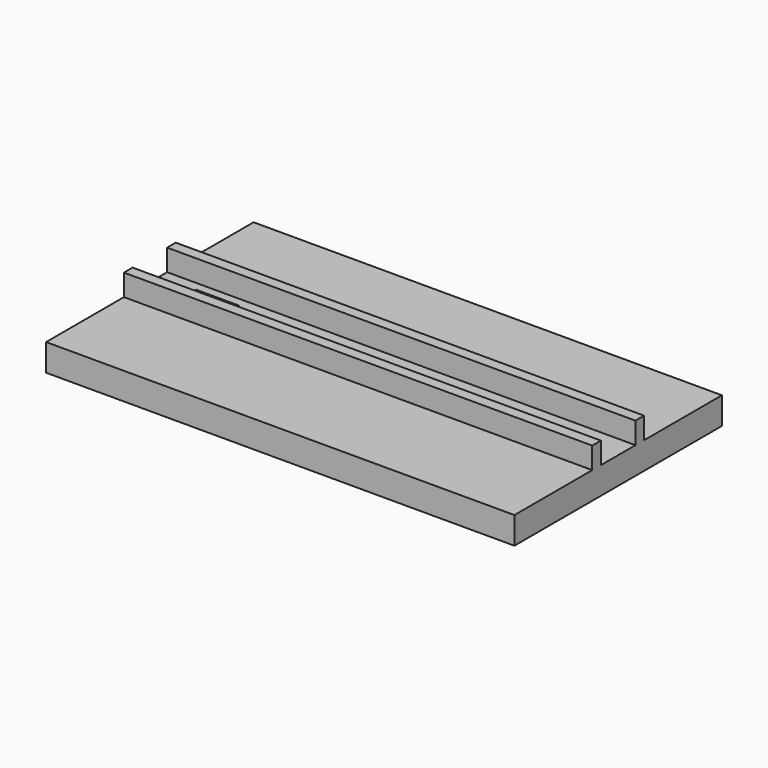
from build123d import *

# Parameters (mm, degrees)
F0_W     = 1651
F0_H     = 914.4
F0_W_2   = 152.4
F0_H_2   = 88.9
F1_DEPTH = 19.05
F2_W     = 1651
F2_H     = 38.1
F3_DEPTH = 76.2
F4_W     = 1651
F4_H     = 914.4
F4_W_2   = 1574.8
F4_H_2   = 190.5
F4_H_3   = 38.1
F5_DEPTH = 76.2


with BuildPart() as f1:
    # F0 (on Top) → F1 (new body)
    with BuildSketch(Plane.XY):
        Rectangle(F0_W, F0_H)
        with Locations((-622.3, 0)):
            Rectangle(F0_W_2, F0_H_2, mode=Mode.SUBTRACT)
        Rectangle(F0_W, F0_H)
        with Locations((-622.3, 0)):
            Rectangle(F0_W_2, F0_H_2, mode=Mode.SUBTRACT)
    extrude(amount=F1_DEPTH)

    # F2 (on face) → F3 (join)
    with BuildSketch(Plane.XY.offset(19.05)):
        with Locations((0, 95.25)):
            Rectangle(F2_W, F2_H)
        with Locations((0, -95.25)):
            Rectangle(F2_W, F2_H)
    extrude(amount=F3_DEPTH)

    # F4 (on face) → F5 (join)
    with BuildSketch(Plane(origin=(0, 0, 0), x_dir=(1, 0, 0), z_dir=(0, 0, -1))):
        Rectangle(F4_W, F4_H)
        Polygon((-787.4, 190.5), (787.4, 190.5), (787.4, -190.5), (787.4, -228.6), (787.4, -419.1), (-787.4, -419.1), (-787.4, -228.6), (-787.4, -190.5), align=None, mode=Mode.SUBTRACT)
        with Locations((0, 323.85)):
            Rectangle(F4_W_2, F4_H_2, mode=Mode.SUBTRACT)
        with Locations((0, -209.55)):
            Rectangle(F4_W_2, F4_H_3)
    extrude(amount=F5_DEPTH)


with BuildPart() as f6_1:
    # F6: copy of F1
    add(f1.part)


solid = Compound([f1.part, f6_1.part])
